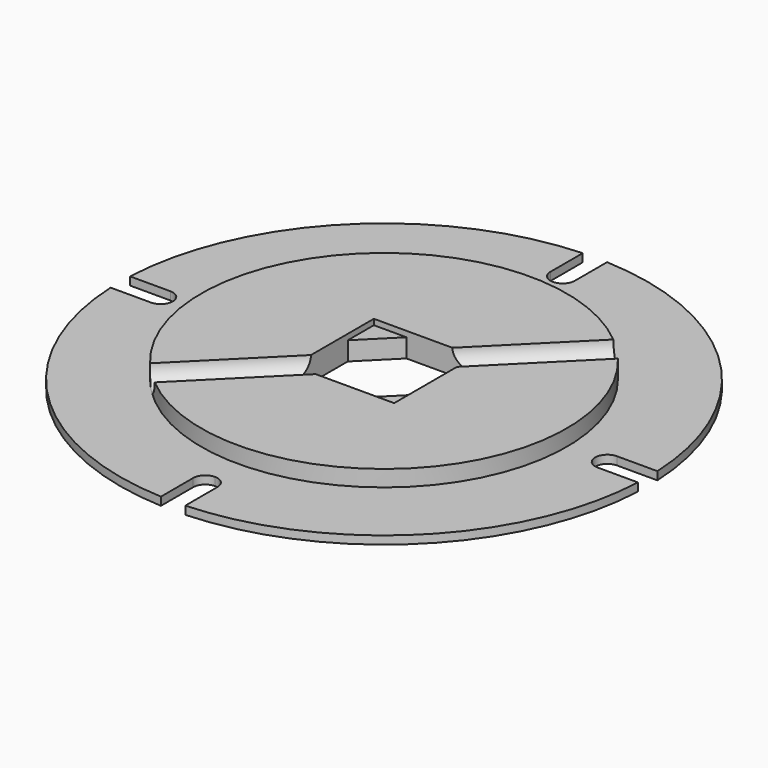
from build123d import *

# Parameters (mm, degrees)
F2_DEPTH      = 2
F3_DEPTH      = 6
F4_DEPTH      = 6
F5_DEPTH      = 4.6
F9_DEPTH      = 45
F9_DEPTH_BACK = 45


with BuildPart() as f2:
    # F0 (on Top) → F2 (new body)
    with BuildSketch(Plane.XY):
        with BuildLine():
            Line((55, 3), (64.930732323, 3))
            ThreePointArc((64.930732323, 3), (45.9619407771, 45.9619407771), (3, 64.930732323))
            Line((3, 64.930732323), (3, 55))
            ThreePointArc((3, 55), (0, 52), (-3, 55))
            Line((-3, 55), (-3, 64.930732323))
            ThreePointArc((-3, 64.930732323), (-45.9619407771, 45.9619407771), (-64.930732323, 3))
            Line((-64.930732323, 3), (-55, 3))
            ThreePointArc((-55, 3), (-52, 0), (-55, -3))
            Line((-55, -3), (-64.930732323, -3))
            ThreePointArc((-64.930732323, -3), (-45.9619407771, -45.9619407771), (-3, -64.930732323))
            Line((-3, -64.930732323), (-3, -55))
            ThreePointArc((-3, -55), (-2.1213203436, -52.8786796564), (0, -52))
            ThreePointArc((0, -52), (2.1213203436, -52.8786796564), (3, -55))
            Line((3, -55), (3, -64.930732323))
            ThreePointArc((3, -64.930732323), (45.9619407771, -45.9619407771), (64.930732323, -3))
            Line((64.930732323, -3), (55, -3))
            ThreePointArc((55, -3), (52, 0), (55, 3))
        make_face()
        with BuildLine():
            ThreePointArc((45, 0), (31.8198051534, -31.8198051534), (0, -45))
            ThreePointArc((0, -45), (-31.8198051534, 31.8198051534), (45, 0))
        make_face(mode=Mode.SUBTRACT)
    extrude(amount=F2_DEPTH)

    # F0 (on Top) → F3 (join)
    with BuildSketch(Plane.XY):
        with BuildLine():
            ThreePointArc((45, 0), (-31.8198051534, 31.8198051534), (0, -45))
            ThreePointArc((0, -45), (31.8198051534, -31.8198051534), (45, 0))
        make_face()
    extrude(amount=F3_DEPTH)

    # F1 (on Top) → F4 (cut)
    with BuildSketch(Plane.XY):
        Polygon((4.4705627485, -12.5), (12.5, -12.5), (12.5, -4.4705627485), align=None)
        with BuildLine():
            Line((-12.5, -12.5), (4.4705627485, -12.5))
            Line((4.4705627485, -12.5), (12.5, -4.4705627485))
            Line((12.5, -4.4705627485), (12.5, 12.5))
            Line((12.5, 12.5), (7.4246212025, 7.4246212025))
            ThreePointArc((7.4246212025, 7.4246212025), (9.7007350914, 4.0181760398), (10.5, 0))
            ThreePointArc((10.5, 0), (4.0181760398, -9.7007350914), (-7.4246212025, -7.4246212025))
            Line((-7.4246212025, -7.4246212025), (-12.5, -12.5))
        make_face()
        with BuildLine():
            Line((-12.5, 4.4705627485), (-12.5, -12.5))
            Line((-12.5, -12.5), (-7.4246212025, -7.4246212025))
            ThreePointArc((-7.4246212025, -7.4246212025), (-7.4246212025, 7.4246212025), (7.4246212025, 7.4246212025))
            Line((7.4246212025, 7.4246212025), (12.5, 12.5))
            Line((12.5, 12.5), (-4.4705627485, 12.5))
            Line((-4.4705627485, 12.5), (-12.5, 4.4705627485))
        make_face()
        Polygon((-12.5, 12.5), (-12.5, 4.4705627485), (-4.4705627485, 12.5), align=None)
        with BuildLine():
            Line((7.4246212025, 7.4246212025), (-7.4246212025, -7.4246212025))
            ThreePointArc((-7.4246212025, -7.4246212025), (4.0181760398, -9.7007350914), (10.5, 0))
            ThreePointArc((10.5, 0), (9.7007350914, 4.0181760398), (7.4246212025, 7.4246212025))
        make_face()
        with BuildLine():
            ThreePointArc((7.4246212025, 7.4246212025), (-7.4246212025, 7.4246212025), (-7.4246212025, -7.4246212025))
            Line((-7.4246212025, -7.4246212025), (7.4246212025, 7.4246212025))
        make_face()
    extrude(amount=F4_DEPTH, mode=Mode.SUBTRACT)

    # F1 (on Top) → F5 (join)
    with BuildSketch(Plane.XY):
        Polygon((-12.5, 12.5), (-12.5, 4.4705627485), (-4.4705627485, 12.5), align=None)
        Polygon((4.4705627485, -12.5), (12.5, -12.5), (12.5, -4.4705627485), align=None)
    extrude(amount=F5_DEPTH)

    # F8 (on line) → F9 (cut, two sides)
    with BuildSketch(Plane(origin=(0, 0, 0), x_dir=(-0.7071067812, 0.7071067812, 0), z_dir=(0.7071067812, 0.7071067812, 0))) as f9_sk:
        with BuildLine():
            ThreePointArc((0, 2), (2.8284271247, 3.1715728753), (4, 6))
            ThreePointArc((4, 6), (-2.8284271247, 8.8284271247), (0, 2))
        make_face()
    extrude(amount=-F9_DEPTH, mode=Mode.SUBTRACT)
    extrude(f9_sk.sketch, amount=F9_DEPTH_BACK, mode=Mode.SUBTRACT)


solid = f2.part
